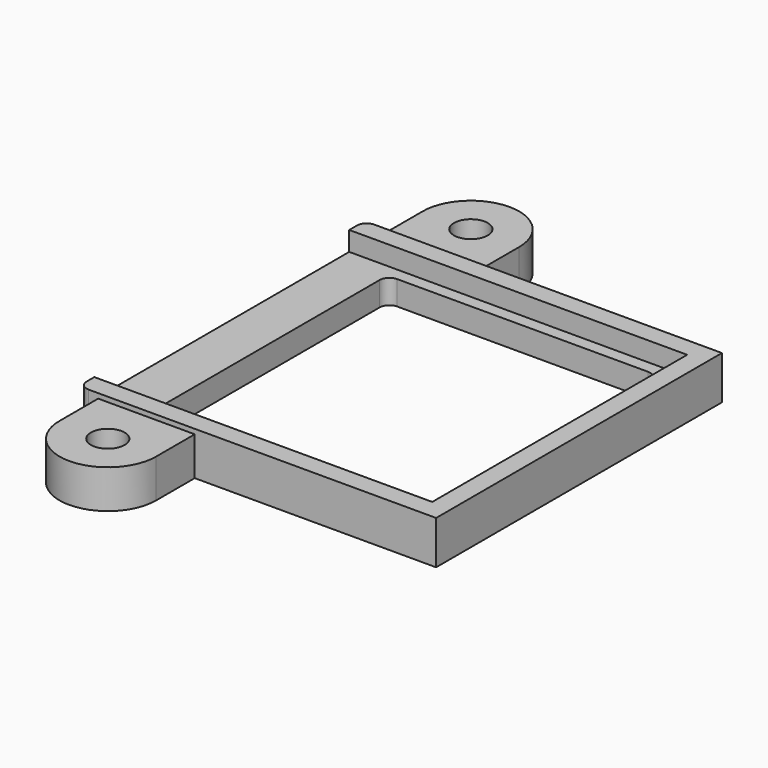
from build123d import *

# Parameters (mm, degrees)
F0_W     = 37
F0_H     = 37
F0_W_2   = 28
F0_H_2   = 30.4
F1_DEPTH = 4.5
F2_W     = 35
F2_H     = 33
F3_DEPTH = 2
F4_R     = 1.75
F5_DEPTH = 4
F6_DEPTH = 4
F7_R     = 1


with BuildPart() as f1:
    # F0 (on Top) → F1 (new body)
    with BuildSketch(Plane.XY):
        with Locations((-7.463294, -0.689729)):
            Rectangle(F0_W, F0_H)
        with Locations((-6.963294, -0.689729)):
            Rectangle(F0_W_2, F0_H_2, mode=Mode.SUBTRACT)
    extrude(amount=F1_DEPTH)

    # F2 (on face) → F3 (cut)
    with BuildSketch(Plane.XY.offset(4.5)):
        with Locations((-8.463294, -0.689729)):
            Rectangle(F2_W, F2_H)
    extrude(amount=-F3_DEPTH, mode=Mode.SUBTRACT)

    # F4 (on Top) → F5 (join)
    with BuildSketch(Plane.XY):
        with BuildLine():
            Line((-13.963294, 17.810271), (-13.963294, 22.810271))
            ThreePointArc((-13.963294, 22.810271), (-18.963294, 27.810271), (-23.963294, 22.810271))
            Line((-23.963294, 22.810271), (-23.963294, 17.810271))
            Line((-23.963294, 17.810271), (-13.963294, 17.810271))
        make_face()
        with Locations((-18.963294, 22.810271)):
            Circle(F4_R, mode=Mode.SUBTRACT)
        with BuildLine():
            Line((-23.963294, -19.189729), (-23.963294, -24.189729))
            ThreePointArc((-23.963294, -24.189729), (-18.963294, -29.189729), (-13.963294, -24.189729))
            Line((-13.963294, -24.189729), (-13.963294, -19.189729))
            Line((-13.963294, -19.189729), (-23.963294, -19.189729))
        make_face()
        with Locations((-18.963294, -24.189729)):
            Circle(F4_R, mode=Mode.SUBTRACT)
    extrude(amount=F5_DEPTH)

    # F4 (on Top) → F6 (join)
    with BuildSketch(Plane.XY):
        with BuildLine():
            Line((-13.963294, 17.810271), (-13.963294, 22.810271))
            ThreePointArc((-13.963294, 22.810271), (-18.963294, 27.810271), (-23.963294, 22.810271))
            Line((-23.963294, 22.810271), (-23.963294, 17.810271))
            Line((-23.963294, 17.810271), (-13.963294, 17.810271))
        make_face()
        with Locations((-18.963294, 22.810271)):
            Circle(F4_R, mode=Mode.SUBTRACT)
        with BuildLine():
            Line((-23.963294, -19.189729), (-23.963294, -24.189729))
            ThreePointArc((-23.963294, -24.189729), (-18.963294, -29.189729), (-13.963294, -24.189729))
            Line((-13.963294, -24.189729), (-13.963294, -19.189729))
            Line((-13.963294, -19.189729), (-23.963294, -19.189729))
        make_face()
        with Locations((-18.963294, -24.189729)):
            Circle(F4_R, mode=Mode.SUBTRACT)
    extrude(amount=F6_DEPTH)

    # F7
    f7_edges = [f1.edges().sort_by_distance(p)[0] for p in [
        (7.036706, 14.510271, 1.25),
        (-20.963294, 14.510271, 1.25),
        (-20.963294, -15.889729, 1.25),
        (7.036706, -15.889729, 1.25),
        (-25.963294, -19.189729, 2.25),
        (-25.963294, 17.810271, 2.25),
    ]]
    fillet(f7_edges, radius=F7_R)


solid = f1.part
